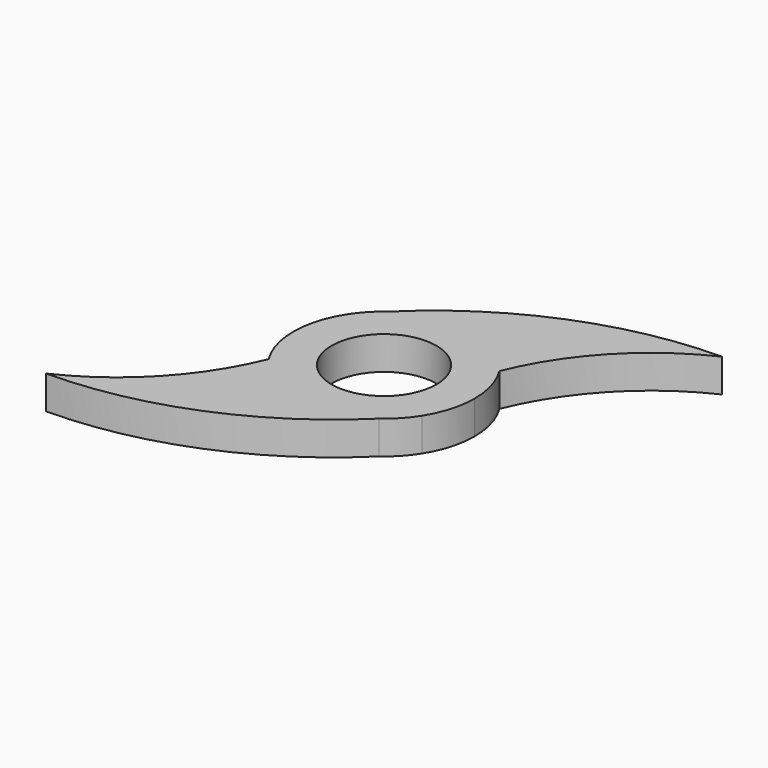
from build123d import *

# Parameters (mm, degrees)
F0_R     = 11.025
F1_DEPTH = 7


with BuildPart() as f1:
    # F0 (on Top) → F1 (new body)
    with BuildSketch(Plane.XY):
        with BuildLine():
            ThreePointArc((16.114493, -10.16), (18.301415, -5.287788), (19.05, 0))
            ThreePointArc((19.05, 0), (18.301415, 5.287788), (16.114493, 10.16))
            ThreePointArc((16.114493, 10.16), (3.582497, 18.71011), (-11.221544, 15.394137))
            ThreePointArc((-11.221544, 15.394137), (-13.729573, 12.83461), (-16.114493, 10.16))
            ThreePointArc((-16.114493, 10.16), (-19.05, 0), (-16.114493, -10.16))
            ThreePointArc((-16.114493, -10.16), (-3.582497, -18.71011), (11.221544, -15.394137))
            ThreePointArc((11.221544, -15.394137), (13.729573, -12.83461), (16.114493, -10.16))
        make_face()
        Circle(F0_R, mode=Mode.SUBTRACT)
        with BuildLine():
            ThreePointArc((-11.221544, 15.394137), (3.582497, 18.71011), (16.114493, 10.16))
            ThreePointArc((16.114493, 10.16), (26.252723, 25.958301), (41.436051, 36.99626))
            ThreePointArc((41.436051, 36.99626), (13.014625, 31.296213), (-11.221544, 15.394137))
        make_face()
        with BuildLine():
            ThreePointArc((-41.436051, -36.99626), (-13.014625, -31.296213), (11.221544, -15.394137))
            ThreePointArc((11.221544, -15.394137), (-3.582497, -18.71011), (-16.114493, -10.16))
            ThreePointArc((-16.114493, -10.16), (-26.252723, -25.958301), (-41.436051, -36.99626))
        make_face()
        with BuildLine():
            ThreePointArc((-16.114493, 10.16), (-13.729573, 12.83461), (-11.221544, 15.394137))
            ThreePointArc((-11.221544, 15.394137), (-13.916314, 13.009178), (-16.114493, 10.16))
        make_face()
        with BuildLine():
            ThreePointArc((11.221544, -15.394137), (13.916314, -13.009178), (16.114493, -10.16))
            ThreePointArc((16.114493, -10.16), (13.729573, -12.83461), (11.221544, -15.394137))
        make_face()
    extrude(amount=F1_DEPTH)


solid = f1.part
